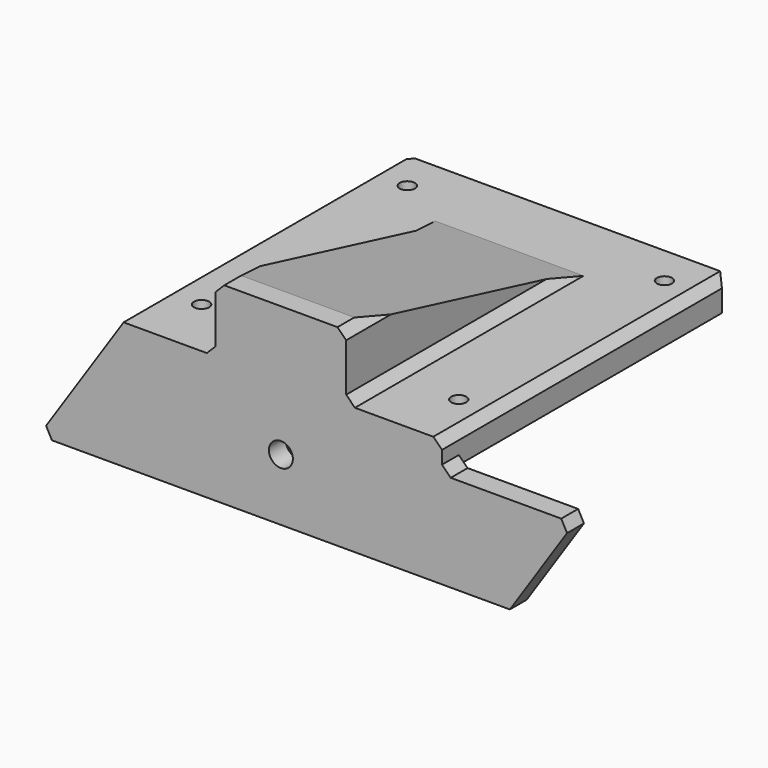
from build123d import *

# Parameters (mm, degrees)
SKETCH_W         = 93.98
SKETCH_H         = 98.425
SKETCH_R         = 2.2225
PAD_DEPTH        = 8.89
SKETCH001_W      = 44.45
SKETCH001_H      = 74.93
POCKET_DEPTH     = 2.286
SKETCH002_R      = 3.4925
PAD001_DEPTH     = 6.147
POCKET001_DEPTH  = 98.426
CHAMFER_SIZE     = 3.81
CHAMFER001_SIZE2 = 77.1906
CHAMFER001_SIZE  = 19.0246
CHAMFER002_SIZE  = 2.54


with BuildPart() as part:
    # Sketch → Pad (new body)
    with BuildSketch(Plane.XY):
        with Locations((0, 49.2125)):
            Rectangle(SKETCH_W, SKETCH_H)
        with Locations((37.5, 86.811)):
            Circle(SKETCH_R, mode=Mode.SUBTRACT)
        with Locations((-37.5, 86.811)):
            Circle(SKETCH_R, mode=Mode.SUBTRACT)
        with Locations((-37.5, 11.811)):
            Circle(SKETCH_R, mode=Mode.SUBTRACT)
        with Locations((37.5, 11.811)):
            Circle(SKETCH_R, mode=Mode.SUBTRACT)
    extrude(amount=PAD_DEPTH)

    # Sketch001 → Pocket (cut)
    with BuildSketch(Plane.XY):
        with Locations((0, 37.465)):
            Rectangle(SKETCH001_W, SKETCH001_H)
    extrude(amount=POCKET_DEPTH, mode=Mode.SUBTRACT)

    # Sketch002 → Pad001 (join)
    with BuildSketch(Plane.XZ):
        Polygon((-19.05, 8.89), (-19.05, 27.94), (19.05, 27.94), (19.05, 8.89), (46.99, 8.89), (46.99, 0), (85.572552, 0), (66.7766, -28.194), (-70.5866, -28.194), (-45.863996, 8.89), align=None)
        with Locations((0, -10.1346)):
            Circle(SKETCH002_R, mode=Mode.SUBTRACT)
    extrude(amount=PAD001_DEPTH)

    # Sketch003 → Pocket001 (cut, through all)
    with BuildSketch(Plane.XZ):
        Polygon((-45.863996, 8.89), (-45.863996, 18.360811), (-55.502193, 18.360811), (-55.502193, -5.567332), align=None)
    extrude(amount=-POCKET001_DEPTH, mode=Mode.SUBTRACT)

    # Chamfer
    chamfer_edges = [part.edges().sort_by_distance(p)[0] for p in [
        (-70.5866, -3.0735, -28.194),
        (85.572552, -3.0735, 0),
    ]]
    chamfer(chamfer_edges, length=CHAMFER_SIZE)

    # Chamfer001
    chamfer001_edges = [part.edges().sort_by_distance(p)[0] for p in [
        (0, 0, 8.89),
    ]]
    chamfer001_side = part.faces().sort_by_distance((0, 0, 18.415))[0]
    chamfer(chamfer001_edges, length=CHAMFER001_SIZE, length2=CHAMFER001_SIZE2, reference=chamfer001_side)

    # Chamfer002
    chamfer002_edges = [part.edges().sort_by_distance(p)[0] for p in [
        (-19.05, 38.5953, 8.89),
        (-19.05, -3.0735, 8.89),
        (-46.99, 98.425, 3.600495),
        (46.99, 98.425, 4.445),
        (19.05, -3.0735, 8.89),
        (19.05, 38.5953, 8.89),
        (19.05, -3.0735, 27.94),
        (-19.05, -3.0735, 27.94),
        (46.99, 46.139, 8.89),
        (46.99, -3.0735, 0),
    ]]
    chamfer(chamfer002_edges, length=CHAMFER002_SIZE)


solid = part.part
